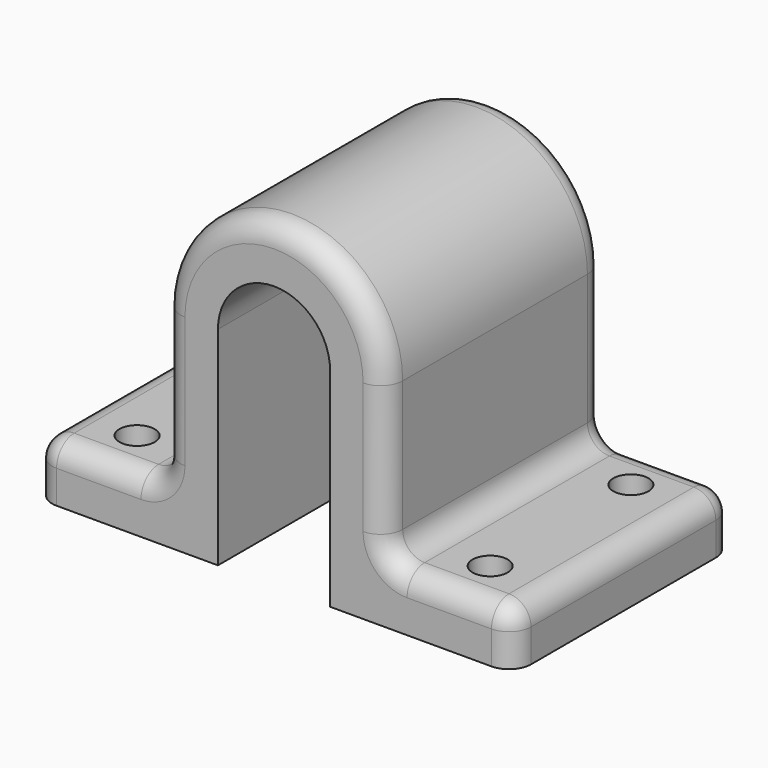
from build123d import *

# Parameters (mm, degrees)
F1_DEPTH = 25
F2_R     = 1.6
F3_DEPTH = 25
F4_R     = 2


with BuildPart() as f1:
    # F0 (on Front) → F1 (new body)
    with BuildSketch(Plane.XZ):
        with BuildLine():
            ThreePointArc((-5.1, 0), (0, 5.1), (5.1, 0))
            Line((5.1, 0), (5.1, -13.9))
            Line((5.1, -13.9), (5.1, -18.9))
            Line((5.1, -18.9), (21.7700861394, -18.9))
            Line((21.7700861394, -18.9), (21.7700861394, -15.9))
            ThreePointArc((21.7700861394, -15.9), (21.1842997018, -14.4857864376), (19.7700861394, -13.9))
            Line((19.7700861394, -13.9), (12.1, -13.9))
            ThreePointArc((12.1, -13.9), (10.6857864376, -13.3142135624), (10.1, -11.9))
            Line((10.1, -11.9), (10.1, 0))
            ThreePointArc((10.1, 0), (0, 10.1), (-10.1, 0))
            Line((-10.1, 0), (-10.1, -11.9))
            ThreePointArc((-10.1, -11.9), (-10.6857864376, -13.3142135624), (-12.1, -13.9))
            Line((-12.1, -13.9), (-19.7700861394, -13.9))
            ThreePointArc((-19.7700861394, -13.9), (-21.1842997018, -14.4857864376), (-21.7700861394, -15.9))
            Line((-21.7700861394, -15.9), (-21.7700861394, -18.9))
            Line((-21.7700861394, -18.9), (-5.1, -18.9))
            Line((-5.1, -18.9), (-5.1, -13.9))
            Line((-5.1, -13.9), (-5.1, 0))
        make_face()
    extrude(amount=F1_DEPTH)

    # F2 (on face) → F3 (cut)
    with BuildSketch(Plane.XY.offset(-13.9)):
        with Locations((16.0536523908, -20.5)):
            Circle(F2_R)
        with Locations((16.0536523908, -4.5)):
            Circle(F2_R)
        with Locations((-16.0536523908, -4.5)):
            Circle(F2_R)
        with Locations((-16.0536523908, -20.5)):
            Circle(F2_R)
    extrude(amount=-F3_DEPTH, mode=Mode.SUBTRACT)

    # F4
    f4_edges = [f1.edges().sort_by_distance(p)[0] for p in [
        (-10.1, -25, -5.95),
        (-10.1, 0, -5.95),
    ]]
    fillet(f4_edges, radius=F4_R)


solid = f1.part
